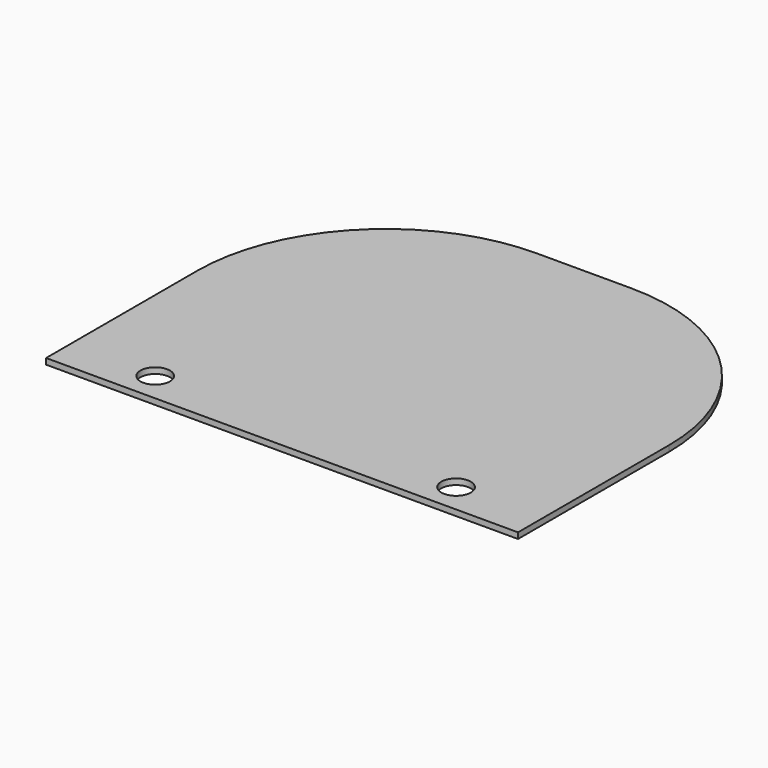
from build123d import *

# Parameters (mm, degrees)
F0_R     = 0.79375
F1_DEPTH = 0.3175


with BuildPart() as f1:
    # F0 (on Top) → F1 (new body)
    with BuildSketch(Plane.XY):
        with BuildLine():
            ThreePointArc((-3.976277, 10.248015), (-11.160482, 7.272219), (-14.136277, 0.088015))
            Line((-14.136277, 0.088015), (-14.136277, -10.071985))
            Line((-14.136277, -10.071985), (11.263723, -10.071985))
            Line((11.263723, -10.071985), (11.263723, 0.088015))
            ThreePointArc((11.263723, 0.088015), (8.287928, 7.272219), (1.103723, 10.248015))
            Line((1.103723, 10.248015), (-3.976277, 10.248015))
        make_face()
        with Locations((-9.532527, -8.484485)):
            Circle(F0_R, mode=Mode.SUBTRACT)
        with Locations((6.659973, -8.484485)):
            Circle(F0_R, mode=Mode.SUBTRACT)
    extrude(amount=F1_DEPTH)


solid = f1.part
